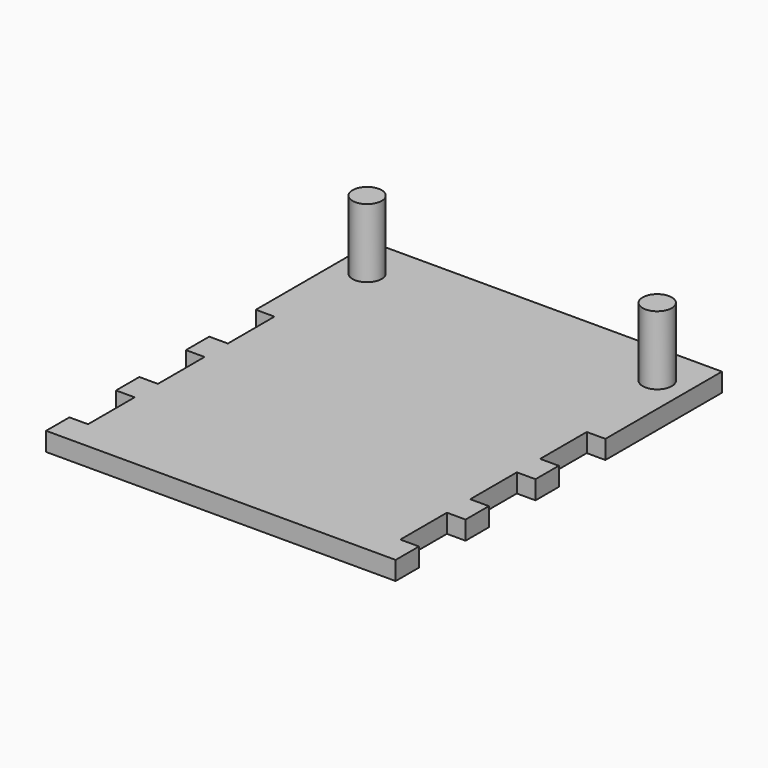
from build123d import *

# Parameters (mm, degrees)
F0_R     = 2.5
F1_DEPTH = 3.2
F2_DEPTH = 15


with BuildPart() as f1:
    # F0 (on Top) → F1 (new body)
    with BuildSketch(Plane.XY):
        Polygon((34.427203, 6.259438), (-25.572797, 6.259438), (-25.572797, -18.740562), (-22.372797, -18.740562), (-22.372797, -28.740562), (-25.572797, -28.740562), (-25.572797, -33.740562), (-22.372797, -33.740562), (-22.372797, -43.740562), (-25.572797, -43.740562), (-25.572797, -48.740562), (-22.372797, -48.740562), (-22.372797, -58.740562), (-25.572797, -58.740562), (-25.572797, -63.740562), (34.427203, -63.740562), (34.427203, -58.740562), (31.227203, -58.740562), (31.227203, -48.740562), (34.427203, -48.740562), (34.427203, -43.740562), (31.227203, -43.740562), (31.227203, -33.740562), (34.427203, -33.740562), (34.427203, -28.740562), (31.227203, -28.740562), (31.227203, -18.740562), (34.427203, -18.740562), align=None)
        with Locations((-20.472797, -1.240562)):
            Circle(F0_R, mode=Mode.SUBTRACT)
        with Locations((29.327203, -1.240562)):
            Circle(F0_R, mode=Mode.SUBTRACT)
    extrude(amount=F1_DEPTH)

    # F0 (on Top) → F2 (join)
    with BuildSketch(Plane.XY):
        with Locations((29.327203, -1.240562)):
            Circle(F0_R)
        with Locations((-20.472797, -1.240562)):
            Circle(F0_R)
    extrude(amount=F2_DEPTH)


solid = f1.part
